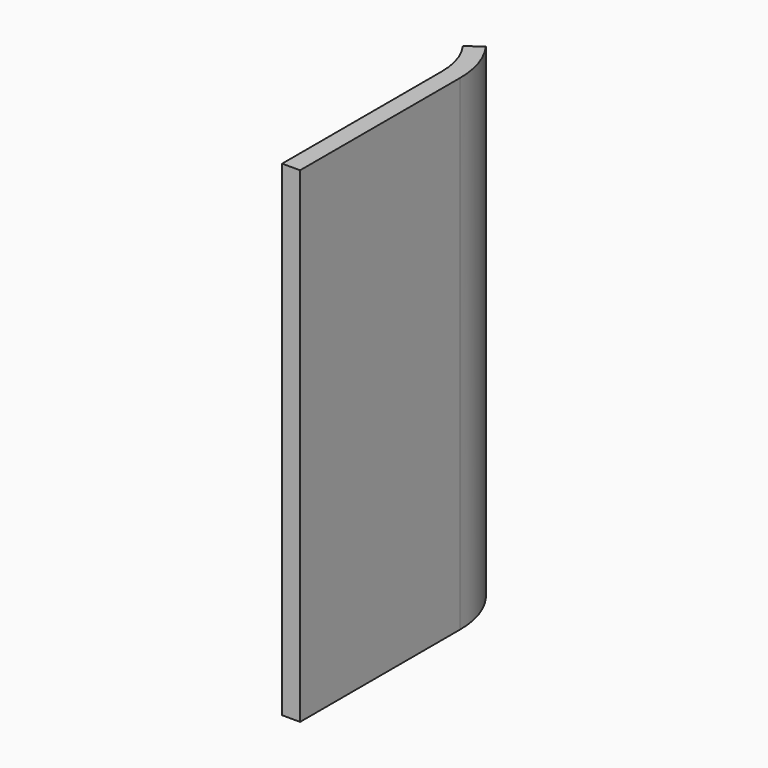
from build123d import *

# Parameters (mm, degrees)
F0_W     = 101.6
F0_H     = 266.7
F1_DEPTH = 2743.2


with BuildPart() as f1:
    # F0 (on Top) → F1 (new body)
    with BuildSketch(Plane.XY):
        with Locations((2115.226834, -2228.030524)):
            Rectangle(F0_W, F0_H)
        with BuildLine():
            Line((2064.426834, -1485.080524), (2064.426834, -1789.880524))
            Line((2064.426834, -1789.880524), (2064.426834, -2094.680524))
            Line((2064.426834, -2094.680524), (2166.026834, -2094.680524))
            Line((2166.026834, -2094.680524), (2166.026834, -1485.080524))
            Line((2166.026834, -1485.080524), (2166.026834, -1231.080524))
            ThreePointArc((2166.026834, -1231.080524), (2140.716536, -1070.87778), (2067.251142, -926.280524))
            Line((2067.251142, -926.280524), (1985.510876, -986.630974))
            ThreePointArc((1985.510876, -986.630974), (2044.208965, -1102.64444), (2064.426834, -1231.080524))
            Line((2064.426834, -1231.080524), (2064.426834, -1484.892366))
            Line((2064.426834, -1484.892366), (2064.426834, -1485.080524))
        make_face()
    extrude(amount=F1_DEPTH)


solid = f1.part
